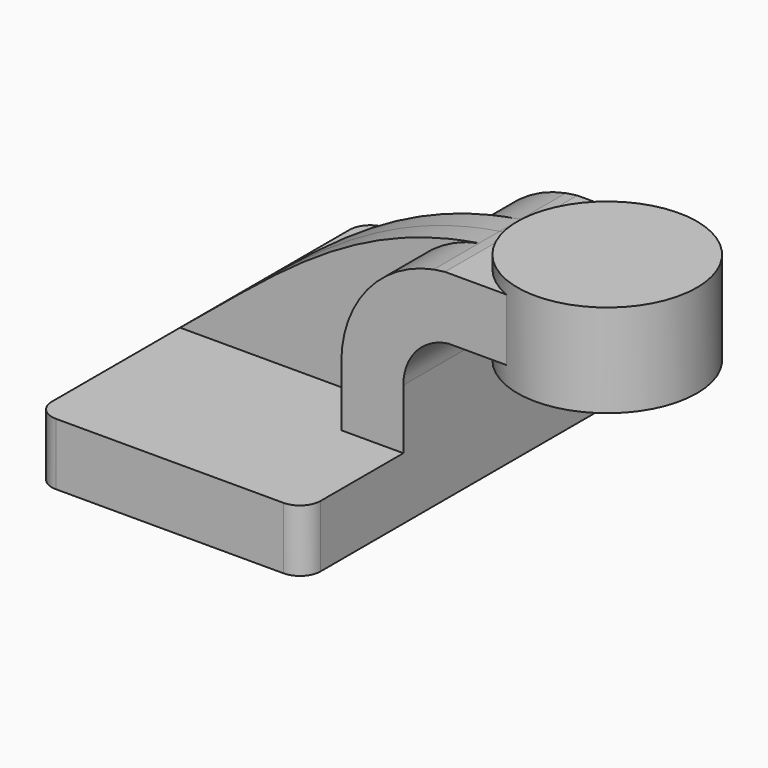
from build123d import *

# Parameters (mm, degrees)
F1_DEPTH  = 63.5
F2_DEPTH  = 25.4
F3_DEPTH  = 7.9375
F2_FACE_W = 50.8
F2_FACE_H = 19.05
F4_DEPTH  = 12.7
F6_R      = 6.35


with BuildPart() as f1:
    # F0 (on Front) → F1 (new body, symmetric)
    with BuildSketch(Plane.XZ):
        Polygon((41.275, -9.525), (41.275, 9.525), (22.225, 9.525), (-41.275, 9.525), (-41.275, -9.525), align=None)
    extrude(amount=F1_DEPTH, both=True)

    # F0 (on Front) → F2 (join, symmetric)
    with BuildSketch(Plane.XZ):
        with BuildLine():
            Line((22.225, 9.525), (41.275, 9.525))
            Line((41.275, 9.525), (41.275, 27.915647))
            ThreePointArc((41.275, 27.915647), (45.211633, 38.379443), (55.069144, 43.653679))
            Line((55.069144, 43.653679), (60.325, 43.653679))
            Line((60.325, 43.653679), (60.325, 62.703679))
            Line((60.325, 62.703679), (54.059947, 62.703679))
            add(Edge.make_bspline(
                [(50.568891, 62.214986), (51.7192, 62.392836), (52.882727, 62.555887), (54.059947, 62.703679)],
                knots=[106.101689, 106.101689, 106.101689, 106.101689, 109.163749, 109.163749, 109.163749, 109.163749], degree=3))
            ThreePointArc((50.568891, 62.214986), (30.227882, 50.163236), (22.225, 27.915647))
            Line((22.225, 27.915647), (22.225, 9.525))
        make_face()
    extrude(amount=F2_DEPTH, both=True)

    # F0 (on Front) → F3 (join, symmetric)
    with BuildSketch(Plane.XZ):
        with BuildLine():
            Line((-41.275, 9.525), (22.225, 9.525))
            Line((22.225, 9.525), (22.225, 27.915647))
            ThreePointArc((22.225, 27.915647), (30.227882, 50.163236), (50.568891, 62.214986))
            add(Edge.make_bspline(
                [(-41.275, 9.525), (-13.280101, 32.121023), (10.710167, 56.052397), (50.568891, 62.214986)],
                knots=[0, 0, 0, 0, 106.101689, 106.101689, 106.101689, 106.101689], degree=3))
        make_face()
    extrude(amount=F3_DEPTH, both=True)

    # F2_face (on face) → F4 (join)
    with BuildSketch(Plane(origin=(60.325, 0, 53.178679), x_dir=(0, 1, 0), z_dir=(1, 0, 0))):
        Rectangle(F2_FACE_W, F2_FACE_H)
    extrude(amount=F4_DEPTH)

    # F0 (on Front) → F5 (revolve)
    with BuildSketch(Plane.XZ):
        Polygon((83.573606, 62.703679), (83.573606, 43.653679), (83.573606, 38.1), (111.125, 38.1), (111.125, 66.675), (83.573606, 66.675), align=None)
    revolve(axis=Axis((83.573606, 0, 40.87684), (0, 0, -1)))

    # F6
    f6_edges = [f1.edges().sort_by_distance(p)[0] for p in [
        (-41.275, -63.5, 0),
        (41.275, -63.5, 0),
        (41.275, 63.5, 0),
        (-41.275, 63.5, 0),
    ]]
    fillet(f6_edges, radius=F6_R)


solid = f1.part
